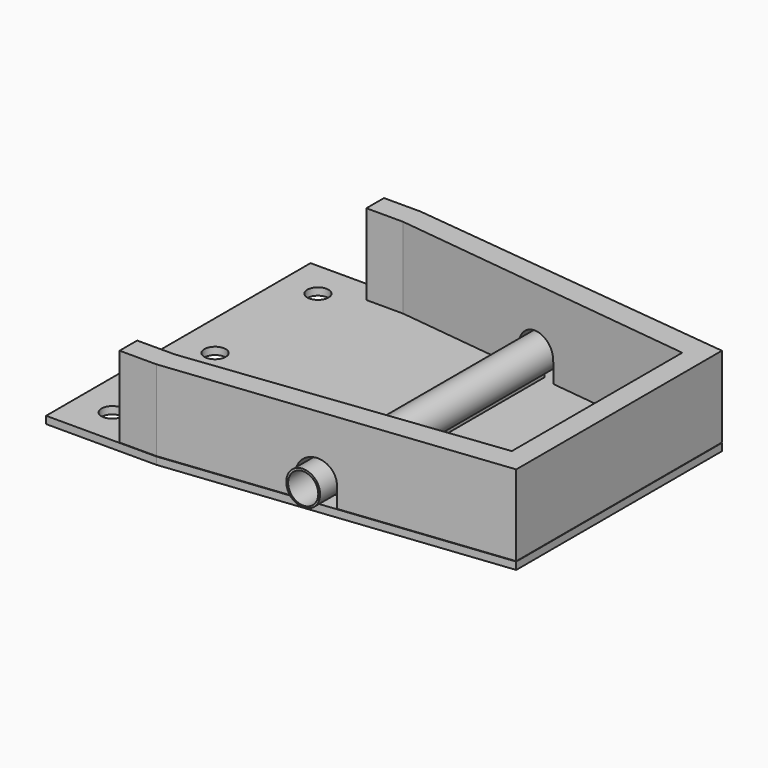
from build123d import *

# Parameters (mm, degrees)
SKETCH013_R      = 4.103857
EXTRUDE012_DEPTH = 120
SKETCH012_R      = 4.612338
EXTRUDE011_DEPTH = 90
SKETCH031_W      = 3.449714
SKETCH031_H      = 1.767909
EXTRUDE033_DEPTH = 70
SKETCH_R         = 1.623797
EXTRUDE_DEPTH    = 10
SKETCH003_R      = 2.9
EXTRUDE005_DEPTH = 50
EXTRUDE002_DEPTH = 2
SKETCH044_W      = 10.390858
SKETCH044_H      = 5.392216
EXTRUDE047_DEPTH = 100
SKETCH043_R      = 1.623797
EXTRUDE046_DEPTH = 10
SKETCH042_R      = 5.177463
EXTRUDE045_DEPTH = 800
EXTRUDE044_DEPTH = 22


with BuildPart() as extrude012:
    # Sketch013 → Extrude012 (new body)
    with BuildSketch(Plane.XZ):
        with Locations((70, 3.549289)):
            Circle(SKETCH013_R)
    extrude(amount=EXTRUDE012_DEPTH)


with BuildPart() as extrude012_1:
    # Extrude012 placement: moved
    add(extrude012.part.moved(Location((0, 105, 0))))


with BuildPart() as tubo:
    # Sketch012 → Extrude011 (new body)
    with BuildSketch(Plane.XZ):
        with Locations((70, 3.62)):
            Circle(SKETCH012_R)
    extrude(amount=EXTRUDE011_DEPTH)


with BuildPart() as tubo_1:
    # Extrude011 placement: moved
    add(tubo.part.moved(Location((0, 90, 0))))

    # Cut004: cut Extrude012
    add(extrude012_1.part, mode=Mode.SUBTRACT)


with BuildPart() as fusion015:
    # Sketch031 → Extrude033 (new body)
    with BuildSketch(Plane.XZ):
        with Locations((69.96706, -1.473137)):
            Rectangle(SKETCH031_W, SKETCH031_H)
    extrude(amount=EXTRUDE033_DEPTH)


with BuildPart() as fusion015_1:
    # Extrude033 placement: moved
    add(fusion015.part.moved(Location((0, 80, 0))))

    # Fusion015: union Tubo
    add(tubo_1.part)


with BuildPart() as fusion015_2:
    # Fusion015 placement: moved
    add(fusion015_1.part.moved(Location((0, 0, -8.2))))


with BuildPart() as extrude_body:
    # Sketch (on Face4 of Cut014) → Extrude (new body)
    with BuildSketch(Plane.XY.offset(12.1)):
        with Locations((30, 86.963425)):
            Circle(SKETCH_R)
        with Locations((30, 3.252438)):
            Circle(SKETCH_R)
        with Locations((95.163345, 10)):
            Circle(SKETCH_R)
        with Locations((94.949776, 80)):
            Circle(SKETCH_R)
        with Locations((117.10096, 20)):
            Circle(SKETCH_R)
        with Locations((117.030609, 70)):
            Circle(SKETCH_R)
        with Locations((117.10096, 44.443623)):
            Circle(SKETCH_R)
    extrude(amount=EXTRUDE_DEPTH)


with BuildPart() as extrude_body_1:
    # Extrude placement: moved
    add(extrude_body.part.moved(Location((0, 0, -27.7))))


with BuildPart() as tornillos002:
    # Sketch003 (on Face8 of Extrude002) → Extrude005 (new body)
    with BuildSketch(Plane.XY.offset(2)):
        with Locations((10, 80.016689)):
            Circle(SKETCH003_R)
        with Locations((10, 45.008344)):
            Circle(SKETCH003_R)
        with Locations((10, 10)):
            Circle(SKETCH003_R)
    extrude(amount=EXTRUDE005_DEPTH)


with BuildPart() as tornillos002_1:
    # Extrude005 placement: moved
    add(tornillos002.part.moved(Location((0, 0, -21))))


with BuildPart() as base:
    # Sketch002 → Extrude002 (new body)
    with BuildSketch(Plane.XY):
        Polygon((0, 0), (30, 0), (120, 10), (120, 80), (30, 90), (0, 90), align=None)
    extrude(amount=EXTRUDE002_DEPTH)

    # Cut002: cut Tornillos002
    add(tornillos002_1.part, mode=Mode.SUBTRACT)


with BuildPart() as base_1:
    # Cut002 placement: moved
    add(base.part.moved(Location((0, 0, -12))))

    # Cut: cut Extrude body
    add(extrude_body_1.part, mode=Mode.SUBTRACT)

    # Fusion: union Fusion015
    add(fusion015_2.part)


with BuildPart() as extrude047:
    # Sketch044 → Extrude047 (new body)
    with BuildSketch(Plane.XZ):
        with Locations((70, -7.3389)):
            Rectangle(SKETCH044_W, SKETCH044_H)
    extrude(amount=EXTRUDE047_DEPTH)


with BuildPart() as extrude047_1:
    # Extrude047 placement: moved
    add(extrude047.part.moved(Location((0, 96.2, 0))))


with BuildPart() as extrude046:
    # Sketch043 → Extrude046 (new body)
    with BuildSketch(Plane.XY.offset(12.1)):
        with Locations((30, 86.963425)):
            Circle(SKETCH043_R)
        with Locations((30, 3.252438)):
            Circle(SKETCH043_R)
        with Locations((95.163345, 10)):
            Circle(SKETCH043_R)
        with Locations((94.949776, 80)):
            Circle(SKETCH043_R)
        with Locations((117.10096, 20)):
            Circle(SKETCH043_R)
        with Locations((117.030609, 70)):
            Circle(SKETCH043_R)
        with Locations((117.10096, 44.443623)):
            Circle(SKETCH043_R)
    extrude(amount=EXTRUDE046_DEPTH)


with BuildPart() as extrude046_1:
    # Extrude046 placement: moved
    add(extrude046.part.moved(Location((0, 0, -24.5))))


with BuildPart() as extrude045:
    # Sketch042 → Extrude045 (new body)
    with BuildSketch(Plane.XZ):
        with Locations((70, 3.62)):
            Circle(SKETCH042_R)
    extrude(amount=EXTRUDE045_DEPTH)


with BuildPart() as extrude045_1:
    # Extrude045 placement: moved
    add(extrude045.part.moved(Location((0, 293, 0))))


with BuildPart() as obj1:
    # Sketch041 → Extrude044 (new body)
    with BuildSketch(Plane.XY):
        Polygon((30, 0), (120, 10), (120, 80), (30, 90), (20, 90), (20, 84), (30, 84), (114, 74), (114, 16), (30.22679, 6), (20, 6), (20, 0), align=None)
    extrude(amount=EXTRUDE044_DEPTH)


with BuildPart() as obj1_1:
    # Extrude044 placement: moved
    add(obj1.part.moved(Location((0, 0, -2))))

    # Cut014: cut Extrude045
    add(extrude045_1.part, mode=Mode.SUBTRACT)


with BuildPart() as obj1_2:
    # Cut014 placement: moved
    add(obj1_1.part.moved(Location((0, 0, -7.9))))

    # Cut015: cut Extrude046
    add(extrude046_1.part, mode=Mode.SUBTRACT)

    # Cut016: cut Extrude047
    add(extrude047_1.part, mode=Mode.SUBTRACT)


solid = Compound([base_1.part, obj1_2.part])
